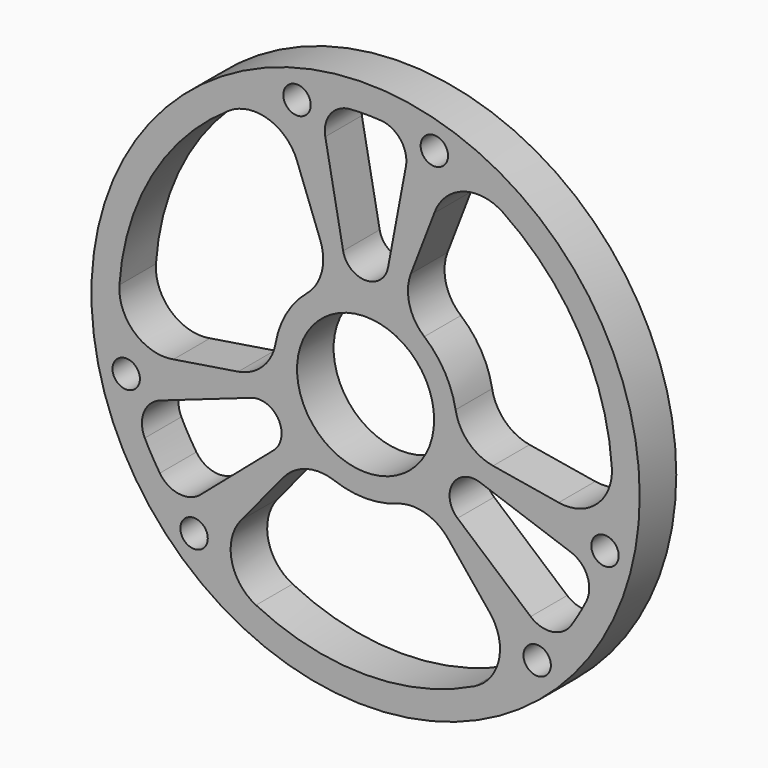
from build123d import *

# Parameters (mm, degrees)
F0_R     = 1524
F0_R_2   = 76.2
F0_R_3   = 381
F1_DEPTH = 127


with BuildPart() as f1:
    # F0 (on Front) → F1 (new body, symmetric)
    with BuildSketch(Plane.XZ):
        Circle(F0_R)
        with Locations((-953.5620317593, -989.7445528567)):
            Circle(F0_R_2, mode=Mode.SUBTRACT)
        with BuildLine():
            ThreePointArc((-456.963354047, -554.3408762981), (-327.721089545, -470.8403186392), (-173.9859882065, -477.2765193342))
            ThreePointArc((-173.9859882065, -477.2765193342), (0, -508), (173.9859882065, -477.2765193342))
            ThreePointArc((173.9859882065, -477.2765193342), (327.7273635176, -470.8420273415), (456.9716264903, -554.3509110508))
            Line((456.9716264903, -554.3509110508), (685.8923624469, -837.2955798757))
            ThreePointArc((685.8923624469, -837.2955798757), (742.1068405038, -1053.7797989831), (605.369402218, -1230.7779843885))
            ThreePointArc((605.369402218, -1230.7779843885), (-2.0796992464, -1371.5984233183), (-609.0989679173, -1228.936535091))
            ThreePointArc((-609.0989679173, -1228.936535091), (-744.6902377392, -1054.4566551818), (-692.2922703786, -839.7879011408))
            Line((-692.2922703786, -839.7879011408), (-456.963354047, -554.3408762981))
        make_face(mode=Mode.SUBTRACT)
        with BuildLine():
            Line((-1141.4610121703, -400.3618834196), (-635.9542686597, -223.057858354))
            ThreePointArc((-635.9542686597, -223.057858354), (-483.9349956347, -279.4), (-511.1509061782, -439.2236231275))
            Line((-511.1509061782, -439.2236231275), (-917.4540678335, -788.3532922592))
            ThreePointArc((-917.4540678335, -788.3532922592), (-1037.7723998445, -823.7118343225), (-1143.8744025578, -756.8605625695))
            ThreePointArc((-1143.8744025578, -756.8605625695), (-1187.8404438307, -685.8), (-1227.3976755867, -612.1940100691))
            ThreePointArc((-1227.3976755867, -612.1940100691), (-1232.2415738434, -486.8813444505), (-1141.4610121703, -400.3618834196))
        make_face(mode=Mode.SUBTRACT)
        with Locations((-1330.8576181602, -331.8200720045)):
            Circle(F0_R_2, mode=Mode.SUBTRACT)
        with Locations((953.8214978061, -990.797417367)):
            Circle(F0_R_2, mode=Mode.SUBTRACT)
        with BuildLine():
            Line((917.4540678335, -788.3532922592), (511.1509061782, -439.2236231275))
            ThreePointArc((511.1509061782, -439.2236231275), (483.9349956347, -279.4), (635.9542686597, -223.057858354))
            Line((635.9542686597, -223.057858354), (1141.4610121703, -400.3618834196))
            ThreePointArc((1141.4610121703, -400.3618834196), (1232.2415738434, -486.8813444505), (1227.3976755867, -612.1940100691))
            ThreePointArc((1227.3976755867, -612.1940100691), (1187.8404438307, -685.8), (1143.8744025578, -756.8605625695))
            ThreePointArc((1143.8744025578, -756.8605625695), (1037.7723998445, -823.7118343225), (917.4540678335, -788.3532922592))
        make_face(mode=Mode.SUBTRACT)
        with Locations((1330.8576181602, -331.8200720043)):
            Circle(F0_R_2, mode=Mode.SUBTRACT)
        with BuildLine():
            ThreePointArc((-500.3265844765, 87.9619739777), (-571.6248386059, -48.3992086508), (-708.5677848262, -118.5735818239))
            Line((-708.5677848262, -118.5735818239), (-1068.0654238722, -175.3524202029))
            ThreePointArc((-1068.0654238722, -175.3524202029), (-1283.6534961661, -115.793476707), (-1368.569702008, 91.1237111996))
            ThreePointArc((-1368.569702008, 91.1237111996), (-1186.7992287612, 687.6002840388), (-759.740775069, 1141.9634471808))
            ThreePointArc((-759.740775069, 1141.9634471808), (-540.8411317074, 1172.1489914233), (-381.1315209894, 1019.4366435619))
            Line((-381.1315209894, 1019.4366435619), (-251.5916042068, 672.9123113523))
            ThreePointArc((-251.5916042068, 672.9123113523), (-243.899132295, 519.2349482215), (-326.34059627, 389.3145453565))
            ThreePointArc((-326.34059627, 389.3145453565), (-439.9409051225, 254), (-500.3265844765, 87.9619739777))
        make_face(mode=Mode.SUBTRACT)
        with Locations((-381.1315209894, 1317.5831373041)):
            Circle(F0_R_2, mode=Mode.SUBTRACT)
        Circle(F0_R_3, mode=Mode.SUBTRACT)
        with BuildLine():
            ThreePointArc((708.5549582538, -118.5714350542), (571.62022184, -48.3946295823), (500.3265844765, 87.9619739778))
            ThreePointArc((500.3265844765, 87.9619739778), (439.9409051225, 254), (326.34059627, 389.3145453565))
            ThreePointArc((326.34059627, 389.3145453565), (243.8974750883, 519.2412359922), (251.5961583359, 672.9244928747))
            Line((251.5961583359, 672.9244928747), (382.1730614253, 1012.6480000786))
            ThreePointArc((382.1730614253, 1012.6480000786), (541.5466556623, 1169.5732756901), (763.20029979, 1139.6542731888))
            ThreePointArc((763.20029979, 1139.6542731888), (1188.8789280076, 683.9981392796), (1368.8397429863, 86.9730879103))
            ThreePointArc((1368.8397429863, 86.9730879103), (1285.5313694466, -117.6923362415), (1073.423791368, -179.6487424211))
            Line((1073.423791368, -179.6487424211), (708.5549582538, -118.5714350542))
        make_face(mode=Mode.SUBTRACT)
        with BuildLine():
            ThreePointArc((-224.0069443368, 1188.7151756787), (-194.4691739989, 1310.5931787729), (-83.5232730288, 1369.0545726386))
            ThreePointArc((-83.5232730288, 1369.0545726386), (0, 1371.6), (83.5232730288, 1369.0545726386))
            ThreePointArc((83.5232730288, 1369.0545726386), (194.4691739989, 1310.5931787729), (224.0069443368, 1188.7151756787))
            Line((224.0069443368, 1188.7151756787), (124.8033624815, 662.2814814815))
            ThreePointArc((124.8033624815, 662.2814814815), (0, 558.8), (-124.8033624815, 662.2814814815))
            Line((-124.8033624815, 662.2814814815), (-224.0069443368, 1188.7151756787))
        make_face(mode=Mode.SUBTRACT)
        with Locations((382.1730614253, 1317.2814092368)):
            Circle(F0_R_2, mode=Mode.SUBTRACT)
    extrude(amount=F1_DEPTH, both=True)


solid = f1.part
